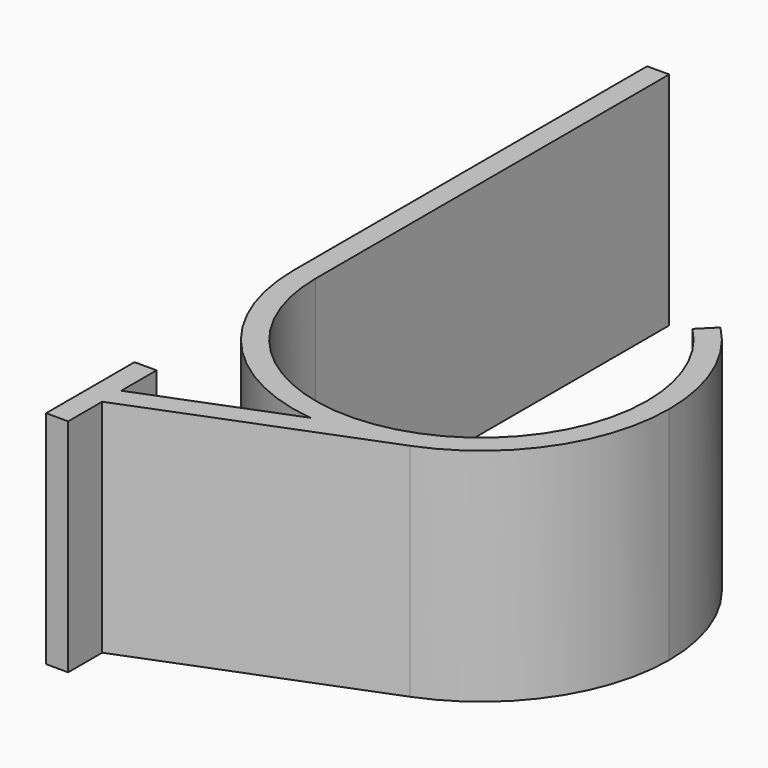
from build123d import *

# Parameters (mm, degrees)
F1_DEPTH = 20


with BuildPart() as f1:
    # F0 (on Top) → F1 (new body)
    with BuildSketch(Plane.XY):
        with BuildLine():
            Line((-29.7745615359, 19.1037830071), (-29.7745615359, 51.1037830071))
            Line((-29.7745615359, 51.1037830071), (-31.7745615359, 51.1037830071))
            Line((-31.7745615359, 51.1037830071), (-31.7745615359, 11.1037830071))
            ThreePointArc((-31.7745615359, 11.1037830071), (-31.2669840383, 15.2268886327), (-29.7745615359, 19.1037830071))
        make_face()
        with BuildLine():
            Line((-29.7745615359, 11.1037830071), (-29.7745615359, 19.1037830071))
            ThreePointArc((-29.7745615359, 19.1037830071), (-31.2669840383, 15.2268886327), (-31.7745615359, 11.1037830071))
            ThreePointArc((-31.7745615359, 11.1037830071), (-27.4719730642, -0.2000101828), (-16.7421214794, -5.7819715768))
            Line((-16.7421214794, -5.7819715768), (-9.2950128758, -2.8595456248))
            ThreePointArc((-9.2950128758, -2.8595456248), (-23.2246139055, -1.289627135), (-29.7745615359, 11.1037830071))
        make_face()
        with BuildLine():
            ThreePointArc((2.2254384641, 11.1037830071), (0.9313905168, 17.6094013573), (-2.7537462557, 23.1245982873))
            Line((-2.7537462557, 23.1245982873), (-4.1679598181, 21.7103847249))
            ThreePointArc((-4.1679598181, 21.7103847249), (-0.9163685482, 16.8440344926), (0.2254384641, 11.1037830071))
            ThreePointArc((0.2254384641, 11.1037830071), (-2.3811513937, 2.6537306375), (-9.2950128758, -2.8595456248))
            Line((-9.2950128758, -2.8595456248), (-16.7421214794, -5.7819715768))
            ThreePointArc((-16.7421214794, -5.7819715768), (-12.5879780165, -5.7550085425), (-8.5644063878, -4.7213227757))
            ThreePointArc((-8.5644063878, -4.7213227757), (-0.7286967081, 1.5270569882), (2.2254384641, 11.1037830071))
        make_face()
        with BuildLine():
            ThreePointArc((-8.5644063878, -4.7213227757), (-12.5879780165, -5.7550085425), (-16.7421214794, -5.7819715768))
            Line((-16.7421214794, -5.7819715768), (-29.7745615359, -10.8962169929))
            Line((-29.7745615359, -10.8962169929), (-29.7745615359, -13.0447018414))
            Line((-29.7745615359, -13.0447018414), (-8.5644063878, -4.7213227757))
        make_face()
        Polygon((-29.7745615359, -13.0447018414), (-29.7745615359, -10.8962169929), (-29.7745615359, -6.8962169929), (-31.7745615359, -6.8962169929), (-31.7745615359, -16.8962169929), (-29.7745615359, -16.8962169929), align=None)
    extrude(amount=F1_DEPTH)


solid = f1.part
